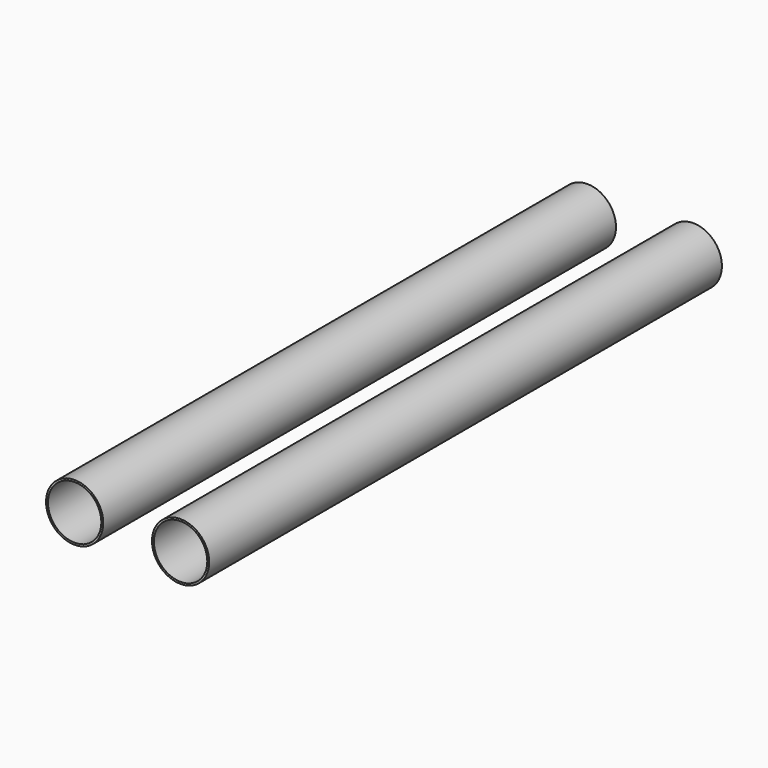
from build123d import *

# Parameters (mm, degrees)
F0_R     = 3.81
F1_R     = 3.81
F2_DEPTH = 85.344
F4_R     = 3.556
F5_DEPTH = 101.092
F3_R     = 3.556
F6_DEPTH = 100.33


with BuildPart() as f2:
    # F0 (on Front) + F1 (on Front) → F2 (new body)
    with BuildSketch(Plane.XZ):
        Circle(F0_R)
    with BuildSketch(Plane.XZ):
        with Locations((14.108564, 0)):
            Circle(F1_R)
    extrude(amount=F2_DEPTH)

    # F4 (on face) → F5 (cut)
    with BuildSketch(Plane.XZ.offset(85.344)):
        Circle(F4_R)
    extrude(amount=-F5_DEPTH, mode=Mode.SUBTRACT)

    # F3 (on face) → F6 (cut)
    with BuildSketch(Plane.XZ.offset(85.344)):
        with Locations((14.108564, 0)):
            Circle(F3_R)
    extrude(amount=-F6_DEPTH, mode=Mode.SUBTRACT)


solid = f2.part
